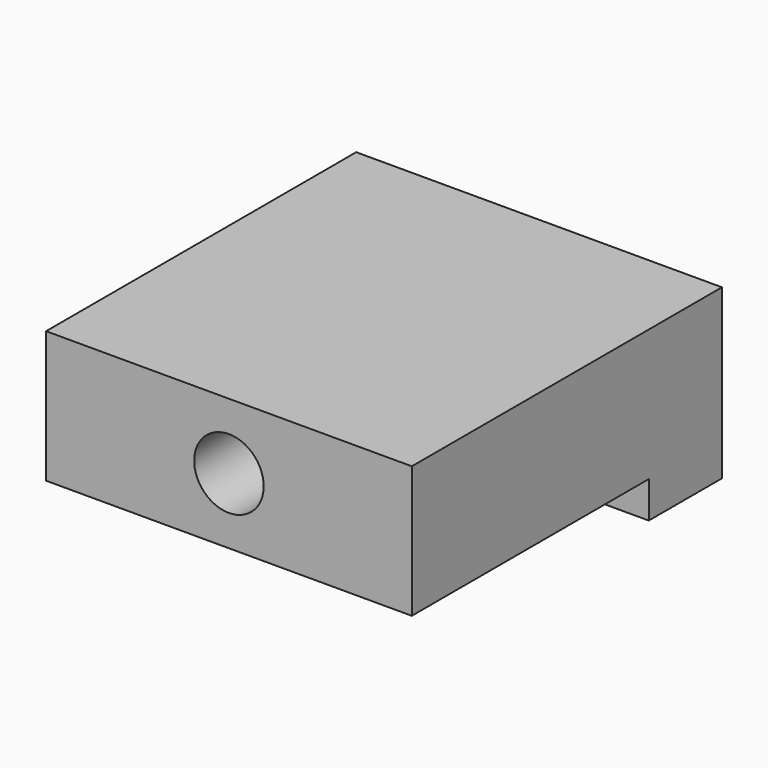
from build123d import *

# Parameters (mm, degrees)
F0_W     = 25.4
F0_H     = 11.684
F0_R     = 2.413
F1_DEPTH = 26.924
F2_W     = 20.574
F2_H     = 2.54
F3_DEPTH = 25.401


with BuildPart() as f1:
    # F0 (on Front) → F1 (new body)
    with BuildSketch(Plane.XZ):
        with Locations((12.7, 5.842)):
            Rectangle(F0_W, F0_H)
        with Locations((12.7, 7.112)):
            Circle(F0_R, mode=Mode.SUBTRACT)
    extrude(amount=F1_DEPTH)

    # F2 (on face) → F3 (cut, through all)
    with BuildSketch(Plane.YZ.offset(25.4)):
        with Locations((-16.637, 1.27)):
            Rectangle(F2_W, F2_H)
    extrude(amount=-F3_DEPTH, mode=Mode.SUBTRACT)


solid = f1.part
